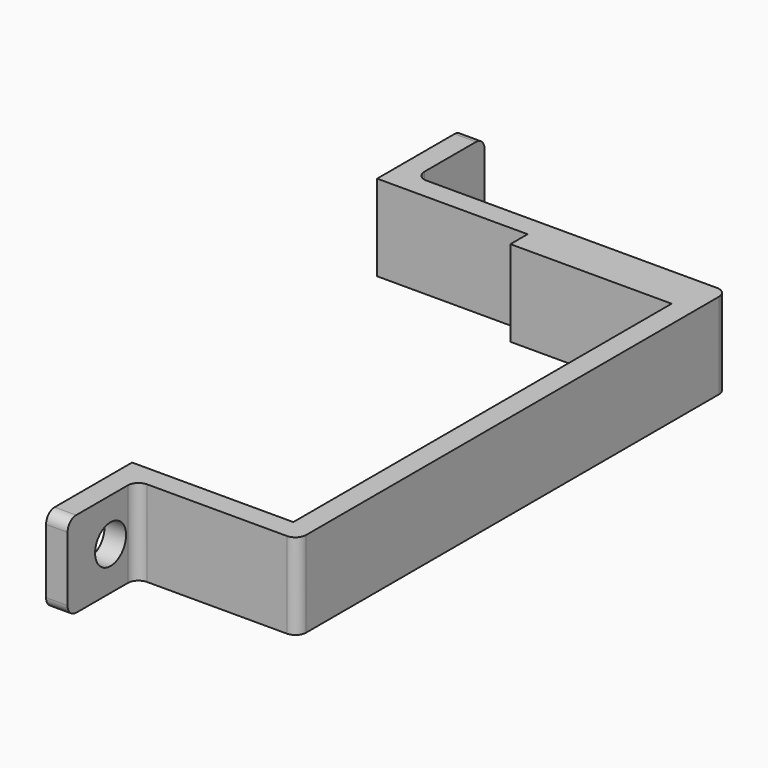
from build123d import *

# Parameters (mm, degrees)
F1_DEPTH = 8
F3_R     = 1.8
F2_R     = 1.8
F4_DEPTH = 25
F5_R     = 1
F6_R     = 1


with BuildPart() as f1:
    # F0 (on Top) → F1 (new body)
    with BuildSketch(Plane.XY):
        Polygon((3.5698827237, -0.7635216035), (-25.4301172763, -0.7635216035), (-25.4301172763, 7.2364783965), (-27.4301172763, 7.2364783965), (-27.4301172763, -2.7635216035), (-13.4301172763, -2.7635216035), (-13.4301172763, -4.7635216035), (1.5698827237, -4.7635216035), (1.5698827237, -48.7635216035), (-13.4301172763, -48.7635216035), (-13.4301172763, -58.7635216035), (-11.4301172763, -58.7635216035), (-11.4301172763, -50.7635216035), (3.5698827237, -50.7635216035), align=None)
    extrude(amount=F1_DEPTH)

    # F3 (on face) + F2 (on face) → F4 (cut)
    with BuildSketch(Plane(origin=(-13.4301172763, 0, 0), x_dir=(0, -1, 0), z_dir=(-1, 0, 0))):
        with Locations((53.7635216035, 4)):
            Circle(F3_R)
    with BuildSketch(Plane.YZ.offset(-25.4301172763)):
        with Locations((3.2364783965, 4)):
            Circle(F2_R)
    extrude(amount=-F4_DEPTH, dir=(-1, 0, 0), mode=Mode.SUBTRACT)

    # F5
    f5_edges = [f1.edges().sort_by_distance(p)[0] for p in [
        (-25.430117, -0.763522, 4),
        (-11.430117, -50.763522, 4),
        (3.569883, -50.763522, 4),
        (3.569883, -0.763522, 4),
    ]]
    fillet(f5_edges, radius=F5_R)

    # F6
    f6_edges = [f1.edges().sort_by_distance(p)[0] for p in [
        (-26.430117, 7.236478, 8),
        (-26.430117, 7.236478, 0),
        (-12.430117, -58.763522, 0),
        (-12.430117, -58.763522, 8),
    ]]
    fillet(f6_edges, radius=F6_R)


solid = f1.part
